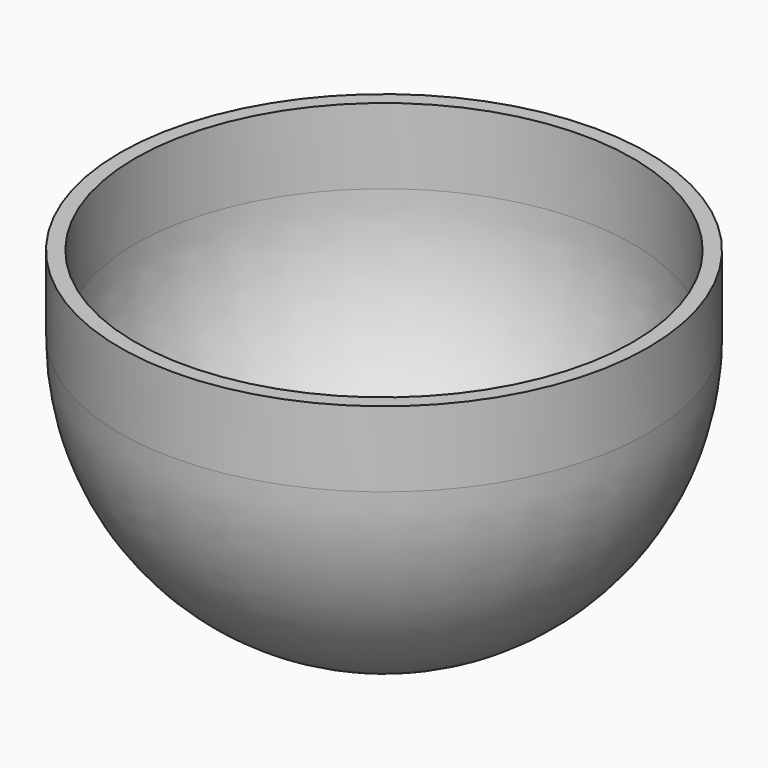
from build123d import *


with BuildPart() as f1:
    # F0 (on Front) → F1 (revolve)
    with BuildSketch(Plane.XZ):
        with BuildLine():
            Line((0, 12), (0, 10))
            ThreePointArc((0, 10), (24.748737, 20.251263), (35, 45))
            Line((35, 45), (35, 55))
            Line((35, 55), (33, 55))
            Line((33, 55), (33, 45))
            ThreePointArc((33, 45), (23.334524, 21.665476), (0, 12))
        make_face()
    revolve(axis=Axis((0, 0, 11), (0, 0, -1)))


solid = f1.part
